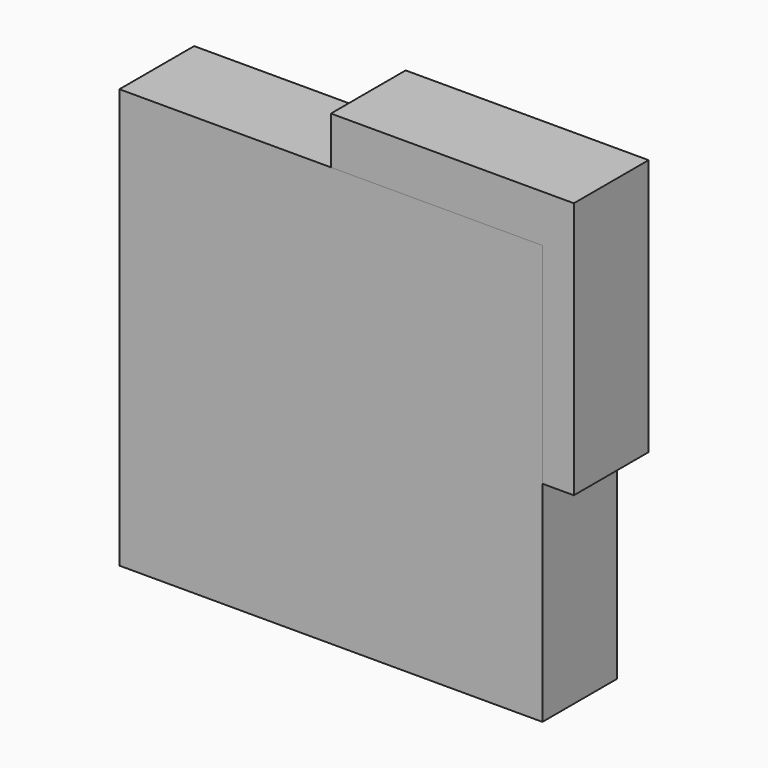
from build123d import *

# Parameters (mm, degrees)
F0_W     = 65.00978
F0_H     = 68.805739
F1_DEPTH = 25
F2_W     = 113.203154
F2_H     = 112.249196
F3_DEPTH = 25


with BuildPart() as f1:
    # F0 (on Front) → F1 (new body)
    with BuildSketch(Plane.XZ):
        with Locations((32.50489, 34.40287)):
            Rectangle(F0_W, F0_H)
    extrude(amount=F1_DEPTH)


with BuildPart() as f3:
    # F2 (on Front) → F3 (new body)
    with BuildSketch(Plane.XZ):
        Rectangle(F2_W, F2_H)
    extrude(amount=F3_DEPTH)


solid = Compound([f1.part, f3.part])
